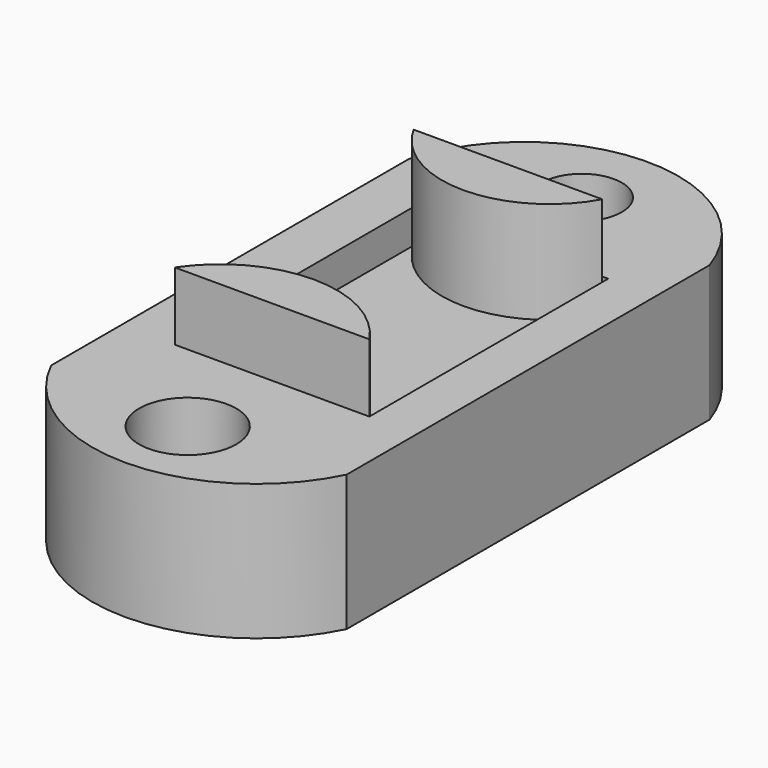
from build123d import *

# Parameters (mm, degrees)
F1_DEPTH = 38.1
F0_R     = 9.071079
F0_R_2   = 7.463682
F2_DEPTH = 25.4
F3_DEPTH = 19.05


with BuildPart() as f1:
    # F0 (on Top) → F1 (new body)
    with BuildSketch(Plane.XY):
        with BuildLine():
            Line((23.460182, 38.690966), (-11.769377, 38.690966))
            ThreePointArc((-11.769377, 38.690966), (5.845403, 28.285846), (23.460182, 38.690966))
        make_face()
        with BuildLine():
            ThreePointArc((24.571158, -17.05615), (6.400891, -7.345424), (-11.769377, -17.05615))
            Line((-11.769377, -17.05615), (24.571158, -17.05615))
        make_face()
    extrude(amount=F1_DEPTH)


with BuildPart() as f2:
    # F0 (on Top) → F2 (new body)
    with BuildSketch(Plane.XY):
        with BuildLine():
            Line((33.434838, -33.434838), (33.434838, 51.247284))
            ThreePointArc((33.434838, 51.247284), (5.407896, 71.087097), (-21.754544, 50.079253))
            Line((-21.754544, 50.079253), (-21.754544, -33.434838))
            ThreePointArc((-21.754544, -33.434838), (5.840147, -50.647943), (33.434838, -33.434838))
        make_face()
        with Locations((5.811937, -36.022719)):
            Circle(F0_R, mode=Mode.SUBTRACT)
        with Locations((5.525085, 56.343842)):
            Circle(F0_R_2, mode=Mode.SUBTRACT)
        Polygon((-11.769377, -17.05615), (-11.769377, 38.690966), (23.460182, 38.690966), (24.571158, 38.690966), (24.571158, -17.05615), align=None, mode=Mode.SUBTRACT)
    extrude(amount=F2_DEPTH)


with BuildPart() as f3:
    # F0 (on Top) → F3 (new body)
    with BuildSketch(Plane.XY):
        with BuildLine():
            ThreePointArc((23.460182, 38.690966), (5.845403, 28.285846), (-11.769377, 38.690966))
            Line((-11.769377, 38.690966), (-11.769377, -17.05615))
            ThreePointArc((-11.769377, -17.05615), (6.400891, -7.345424), (24.571158, -17.05615))
            Line((24.571158, -17.05615), (24.571158, 38.690966))
            Line((24.571158, 38.690966), (23.460182, 38.690966))
        make_face()
    extrude(amount=F3_DEPTH)


solid = Compound([f1.part, f2.part, f3.part])
